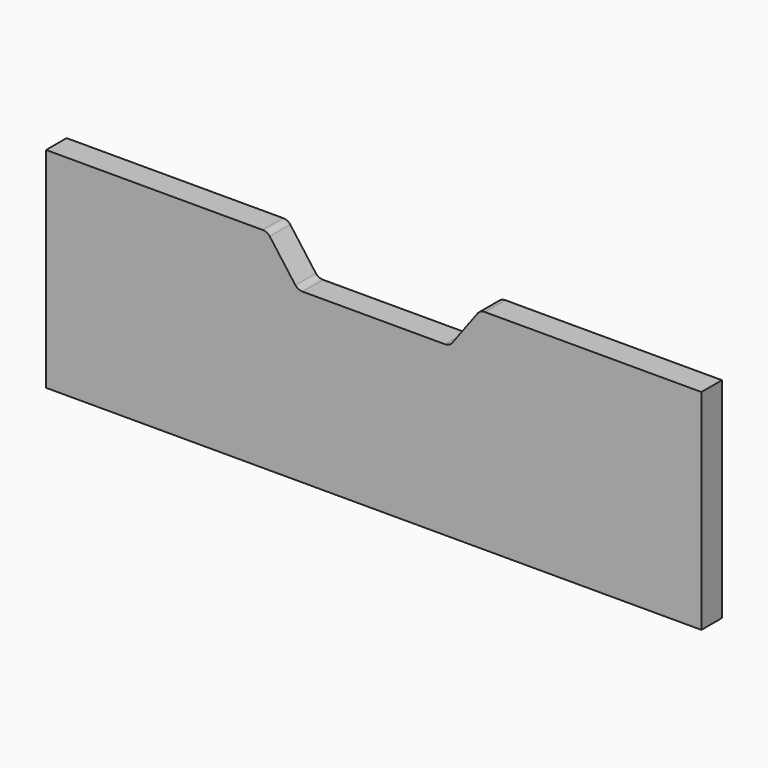
from build123d import *

# Parameters (mm, degrees)
PAD_DEPTH = 18


with BuildPart() as part:
    # Sketch → Pad (new body)
    with BuildSketch(Plane.XZ):
        with BuildLine():
            Line((0, 0), (-460, 0))
            Line((-460, 0), (-460, 147))
            Line((-460, 147), (-308, 147))
            ThreePointArc((-303, 144.653312), (-305.238345, 146.384154), (-308, 147))
            Line((-303, 144.653312), (-285, 120.346672))
            ThreePointArc((-285, 120.346672), (-282.761653, 118.615839), (-280, 118))
            Line((-280, 118), (-180, 118))
            ThreePointArc((-180, 118), (-177.238347, 118.615839), (-175, 120.346672))
            Line((-175, 120.346672), (-157, 144.653328))
            ThreePointArc((-152, 147), (-154.761653, 146.384161), (-157, 144.653328))
            Line((-152, 147), (0, 147))
            Line((0, 147), (0, 0))
        make_face()
    extrude(amount=PAD_DEPTH)


solid = part.part
